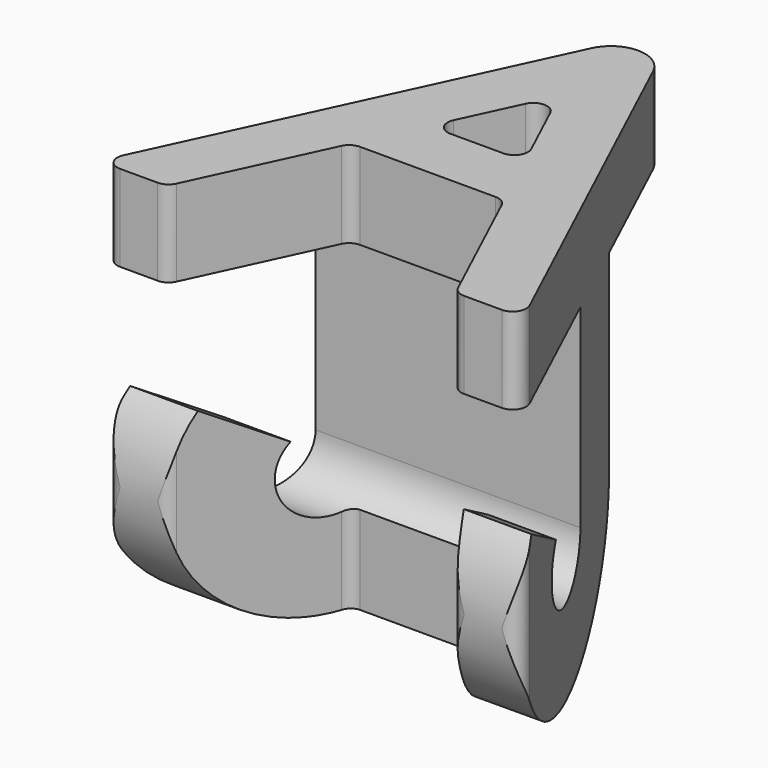
from build123d import *

# Parameters (mm, degrees)
F1_DEPTH = 38.1
F4_DEPTH = 63.5


with BuildPart() as f1:
    # F0 (on Top) → F1 (new body, symmetric)
    with BuildSketch(Plane.XY):
        with BuildLine():
            Line((37.8624187806, -34.487401399), (5.7560469514, 34.4314965026))
            ThreePointArc((5.7560469514, 34.4314965026), (0, 38.1), (-5.7560469514, 34.4314965026))
            Line((-5.7560469514, 34.4314965026), (-37.8624187806, -34.487401399))
            ThreePointArc((-37.8624187806, -34.487401399), (-37.7019617698, -36.9251372739), (-35.56, -38.1))
            Line((-35.56, -38.1), (-28.5547583227, -38.1))
            ThreePointArc((-28.5547583227, -38.1), (-27.1896210488, -37.7019617698), (-26.2523395422, -36.632598601))
            Line((-26.2523395422, -36.632598601), (-14.9362832259, -12.3417776368))
            ThreePointArc((-14.9362832259, -12.3417776368), (-13.9990017193, -11.2724144681), (-12.6338644453, -10.8743762379))
            Line((-12.6338644453, -10.8743762379), (12.6338644453, -10.8743762379))
            ThreePointArc((12.6338644453, -10.8743762379), (13.9990017193, -11.2724144681), (14.9362832259, -12.3417776368))
            Line((14.9362832259, -12.3417776368), (26.2523395422, -36.632598601))
            ThreePointArc((26.2523395422, -36.632598601), (27.1896210488, -37.7019617698), (28.5547583227, -38.1))
            Line((28.5547583227, -38.1), (35.56, -38.1))
            ThreePointArc((35.56, -38.1), (37.7019617698, -36.9251372739), (37.8624187806, -34.487401399))
        make_face()
        with BuildLine():
            ThreePointArc((-2.3024187806, 14.7778239937), (0, 16.2452253927), (2.3024187806, 14.7778239937))
            Line((2.3024187806, 14.7778239937), (7.2449791708, 4.1682223632))
            ThreePointArc((7.2449791708, 4.1682223632), (7.0845221601, 1.7304864882), (4.9425603903, 0.5556237621))
            Line((4.9425603903, 0.5556237621), (-4.9425603903, 0.5556237621))
            ThreePointArc((-4.9425603903, 0.5556237621), (-7.0845221601, 1.7304864882), (-7.2449791708, 4.1682223632))
            Line((-7.2449791708, 4.1682223632), (-2.3024187806, 14.7778239937))
        make_face(mode=Mode.SUBTRACT)
    extrude(amount=F1_DEPTH, both=True)

    # F3 (on Right) → F4 (intersect, symmetric)
    with BuildSketch(Plane.YZ):
        with BuildLine():
            Line((38.1, 38.1), (-38.1, 38.1))
            Line((-38.1, 38.1), (-38.1, 22.0156293362))
            Line((-38.1, 22.0156293362), (-6.1763821984, 22.0156293362))
            Line((-6.1763821984, 22.0156293362), (-6.1763821984, -14.164009311))
            ThreePointArc((-6.1763821984, -14.164009311), (-17.2167607386, -21.5452622947), (-19.8182046927, -8.5220006727))
            Line((-19.8182046927, -8.5220006727), (-33.4594100714, 0))
            ThreePointArc((-33.4594100714, 0), (-21.6164289624, -36.9102857448), (9.7719813781, -14.164009311))
            Line((9.7719813781, -14.164009311), (9.7719813781, 22.0156293362))
            Line((9.7719813781, 22.0156293362), (38.1, 22.0156293362))
            Line((38.1, 22.0156293362), (38.1, 38.1))
        make_face()
    extrude(amount=F4_DEPTH, both=True, mode=Mode.INTERSECT)


solid = f1.part
